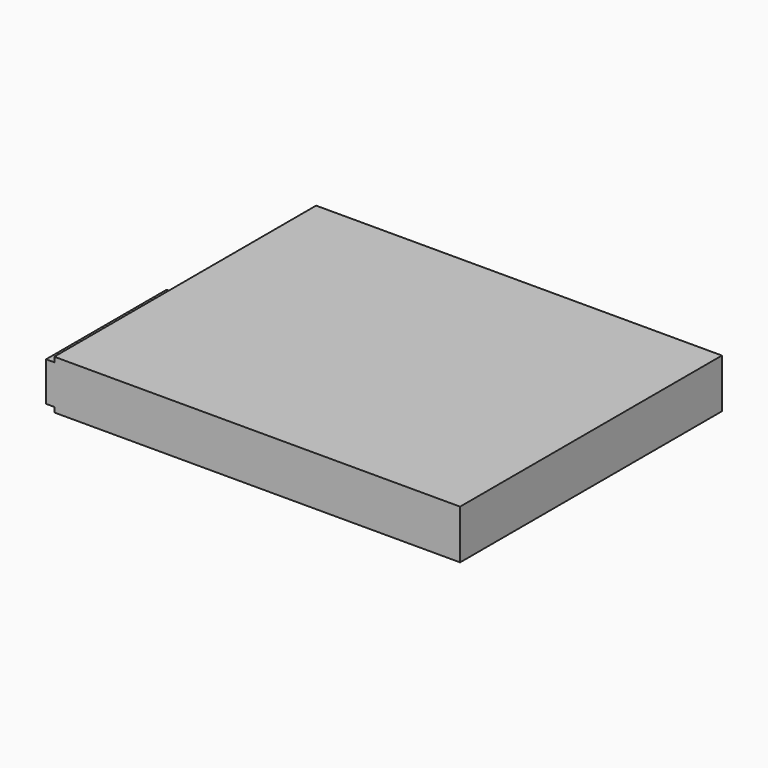
from build123d import *

# Parameters (mm, degrees)
SKETCH_W     = 62
SKETCH_H     = 50
PAD_DEPTH    = 3.75
SKETCH001_W  = 1.25
SKETCH001_H  = 23
PAD001_DEPTH = 3


with BuildPart() as part:
    # Sketch → Pad (new body, symmetric)
    with BuildSketch(Plane.XY):
        with Locations((31, 25)):
            Rectangle(SKETCH_W, SKETCH_H)
    extrude(amount=PAD_DEPTH, both=True)

    # Sketch001 → Pad001 (join, symmetric)
    with BuildSketch(Plane.XY):
        with Locations((-0.625, 11.5)):
            Rectangle(SKETCH001_W, SKETCH001_H)
    extrude(amount=PAD001_DEPTH, both=True)


solid = part.part
